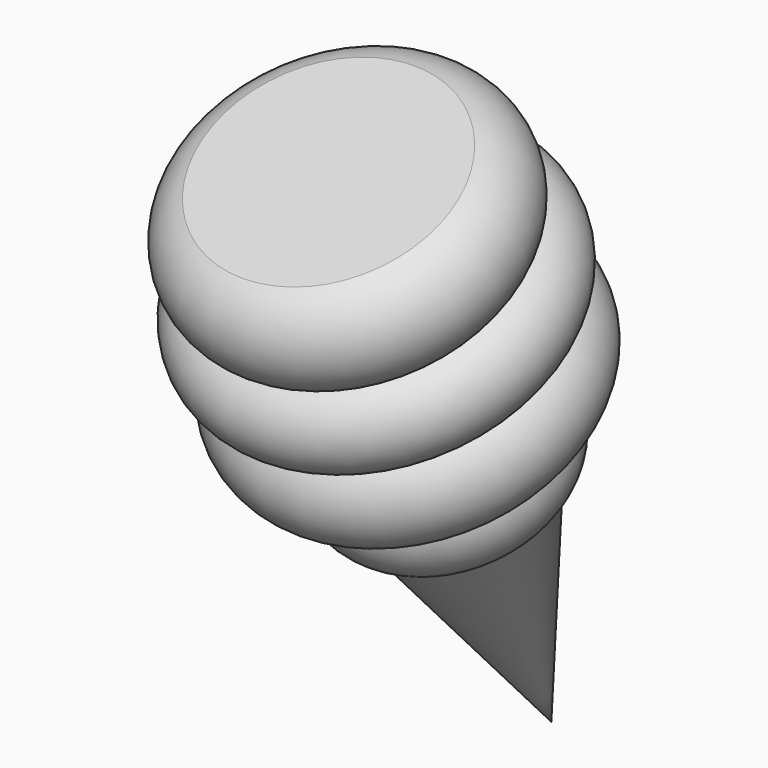
from build123d import *


with BuildPart() as f1:
    # F0 (on Right) → F1 (revolve)
    with BuildSketch(Plane.YZ):
        with BuildLine():
            ThreePointArc((-22.8179170179, -6.6108397913), (-23.8814993263, -9.7822935139), (-21.7645304706, -12.3722295951))
            Line((-21.7645304706, -12.3722295951), (-14.0773815683, -8.7876531926))
            Line((-14.0773815683, -8.7876531926), (-16.4722632535, -3.651812845))
            Line((-16.4722632535, -3.651812845), (-22.8179170179, -6.6108397913))
        make_face()
        with BuildLine():
            ThreePointArc((-21.7645304706, -12.3722295951), (-22.3473080901, -15.5928049121), (-19.5056020319, -17.2165172648))
            Line((-19.5056020319, -17.2165172648), (-11.8184531296, -13.6319408623))
            Line((-11.8184531296, -13.6319408623), (-14.0773815683, -8.7876531926))
            Line((-14.0773815683, -8.7876531926), (-21.7645304706, -12.3722295951))
        make_face()
        with BuildLine():
            ThreePointArc((-19.5056020319, -17.2165172648), (-19.052814126, -21.374342804), (-14.881881992, -21.68394777))
            Line((-14.881881992, -21.68394777), (-9.2815029291, -19.0724481244))
            Line((-9.2815029291, -19.0724481244), (-11.8184531296, -13.6319408623))
            Line((-11.8184531296, -13.6319408623), (-19.5056020319, -17.2165172648))
        make_face()
        with BuildLine():
            ThreePointArc((-14.881881992, -21.68394777), (-14.3410227872, -24.6447401421), (-11.6922235173, -26.0739646091))
            Line((-11.6922235173, -26.0739646091), (-7.0303361627, -23.9000908342))
            Line((-7.0303361627, -23.9000908342), (-9.2815029291, -19.0724481244))
            Line((-9.2815029291, -19.0724481244), (-14.881881992, -21.68394777))
        make_face()
        Polygon((-11.6922235173, -26.0739646091), (0, -38.9766953886), (-7.0303361627, -23.9000908342), align=None)
    revolve(axis=Axis((0, -11.7512997081, -13.7759518396), (0, -0.4226182617, 0.906307787)))


solid = f1.part
